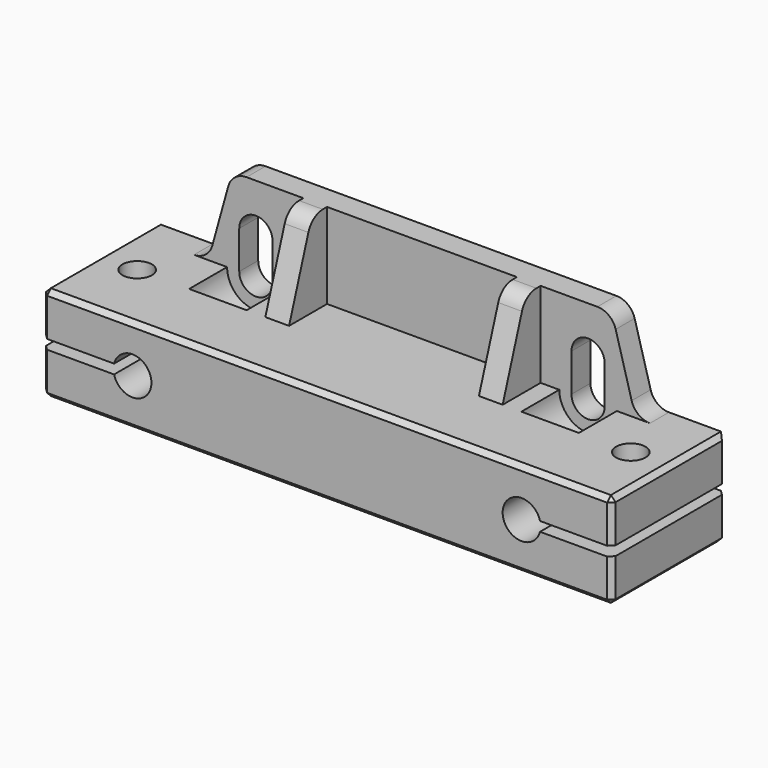
from build123d import *

# Parameters (mm, degrees)
SKETCH_W          = 120
SKETCH_H          = 20
SKETCH_R          = 4
PAD_DEPTH         = 15
SKETCH001_W       = 40
SKETCH001_H       = 2
POCKET_DEPTH      = 265.600282
POCKET_DEPTH_BACK = 265.600282
SKETCH002_R       = 3.1
HOLE_DEPTH        = 20.001
POCKET001_DEPTH   = 5.5
PAD001_START      = -10
PAD001_DEPTH      = 5
SKETCH006_R       = 6.062178
POCKET002_DEPTH   = 10
POCKET003_DEPTH   = 273.798218
PAD002_START      = -20
PAD002_DEPTH      = 5
CHAMFER_SIZE      = 1
FILLET_R          = 4


with BuildPart() as part:
    # Sketch → Pad (new body, symmetric)
    with BuildSketch(Plane.XZ):
        with Locations((0, 10)):
            Rectangle(SKETCH_W, SKETCH_H)
        with Locations((-41, 10)):
            Circle(SKETCH_R, mode=Mode.SUBTRACT)
        with Locations((41, 10)):
            Circle(SKETCH_R, mode=Mode.SUBTRACT)
    extrude(amount=PAD_DEPTH, both=True)

    # Sketch001 → Pocket (cut, two sides)
    with BuildSketch(Plane.XZ) as pocket_sk:
        with Locations((-60, 10)):
            Rectangle(SKETCH001_W, SKETCH001_H)
    pocket = extrude(amount=-POCKET_DEPTH, mode=Mode.SUBTRACT) + extrude(pocket_sk.sketch, amount=POCKET_DEPTH_BACK, mode=Mode.SUBTRACT)

    # Mirrored: Pocket across Sketch001 V_Axis
    add(pocket.mirror(Plane(origin=(0, 0, 0), x_dir=(0, -1, 0), z_dir=(1, 0, 0))), mode=Mode.SUBTRACT)

    # Sketch002 → Hole (cut, through all)
    with BuildSketch(Plane.XY):
        with Locations((-52, 0)):
            Circle(SKETCH002_R)
        with Locations((52, 0)):
            Circle(SKETCH002_R)
    extrude(amount=HOLE_DEPTH, mode=Mode.SUBTRACT)

    # Sketch003 → Pocket001 (cut)
    with BuildSketch(Plane.XY):
        Polygon((-46.75, 3.031089), (-52, 6.062178), (-57.25, 3.031089), (-57.25, -3.031089), (-52, -6.062178), (-46.75, -3.031089), align=None)
    pocket001 = extrude(amount=POCKET001_DEPTH, mode=Mode.SUBTRACT)

    # Mirrored001: Pocket001 across Sketch003 V_Axis
    add(pocket001.mirror(Plane(origin=(0, 0, 0), x_dir=(0, 0, 1), z_dir=(1, 0, 0))), mode=Mode.SUBTRACT)

    # Sketch005 → Pad001 (join)
    with BuildSketch(Plane.XZ.offset(PAD001_START)):
        Polygon((0, 38), (-40, 38), (-45, 20), (0, 20), align=None)
    pad001 = extrude(amount=-PAD001_DEPTH)

    # Sketch006 → Pocket002 (cut)
    with BuildSketch(Plane.XZ):
        with Locations((-35, 20)):
            Circle(SKETCH006_R)
    pocket002 = extrude(amount=-POCKET002_DEPTH, mode=Mode.SUBTRACT)

    # Sketch004 → Pocket003 (cut, through all)
    with BuildSketch(Plane.XZ):
        with BuildLine():
            ThreePointArc((-31.5, 28), (-35, 31.5), (-38.5, 28))
            Line((-38.5, 28), (-38.5, 20))
            ThreePointArc((-38.5, 20), (-35, 16.5), (-31.5, 20))
            Line((-31.5, 28), (-31.5, 20))
        make_face()
    pocket003 = extrude(amount=-POCKET003_DEPTH, mode=Mode.SUBTRACT)

    # Sketch007 → Pad002 (join)
    with BuildSketch(Plane.YZ.offset(PAD002_START)):
        Polygon((10, 38), (6, 38), (0, 20), (10, 20), align=None)
    pad002 = extrude(amount=-PAD002_DEPTH)

    # Mirrored002: Pad002, Pad001, Pocket002, Pocket003 across YZ
    add(pad002.mirror(Plane.YZ))
    add(pad001.mirror(Plane.YZ))
    add(pocket002.mirror(Plane.YZ), mode=Mode.SUBTRACT)
    add(pocket003.mirror(Plane.YZ), mode=Mode.SUBTRACT)

    # Chamfer
    chamfer_edges = [part.edges().sort_by_distance(p)[0] for p in [
        (60, 0, 20),
        (60, 0, 0),
        (-60, 0, 20),
        (-60, 0, 0),
        (0, -15, 20),
        (0, -15, 0),
        (-60, -15, 15.5),
        (-60, -15, 4.5),
        (-60, 15, 4.5),
        (-60, 15, 15.5),
        (60, -15, 15.5),
        (60, -15, 4.5),
        (60, 15, 15.5),
        (60, 15, 4.5),
        (0, 15, 0),
    ]]
    chamfer(chamfer_edges, length=CHAMFER_SIZE)

    # Fillet
    fillet_edges = [part.edges().sort_by_distance(p)[0] for p in [
        (45, 12.5, 20),
        (40, 12.5, 38),
        (-40, 12.5, 38),
        (-45, 12.5, 20),
        (22.5, 6, 38),
        (-22.5, 6, 38),
    ]]
    fillet(fillet_edges, radius=FILLET_R)


solid = part.part
